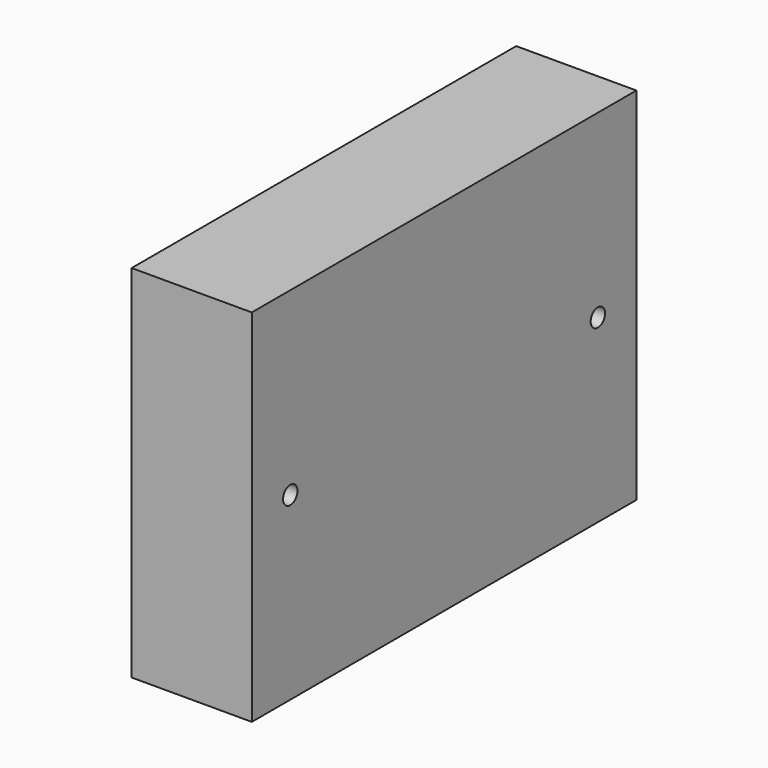
from build123d import *

# Parameters (mm, degrees)
CYLINDER077_R     = 1.5
CYLINDER077_DEPTH = 50
CYLINDER078_R     = 1.5
CYLINDER078_DEPTH = 50
BOX002_W          = 20
BOX002_H          = 80
BOX002_DEPTH      = 60


with BuildPart() as cilindro077:
    # Cylinder077 → Cylinder077 (new body)
    with BuildSketch(Plane(origin=(-8, 8, 30), x_dir=(0, 0, -1), z_dir=(1, 0, 0))):
        Circle(CYLINDER077_R)
    extrude(amount=CYLINDER077_DEPTH)


with BuildPart() as fusion038:
    # Cylinder078 → Cylinder078 (new body)
    with BuildSketch(Plane(origin=(-8, 72, 30), x_dir=(0, 0, -1), z_dir=(1, 0, 0))):
        Circle(CYLINDER078_R)
    extrude(amount=CYLINDER078_DEPTH)

    # Fusion038: union Cilindro077
    add(cilindro077.part)


with BuildPart() as obj1:
    # Box002 → Box002 (new body)
    with BuildSketch(Plane.XY):
        with Locations((10, 40)):
            Rectangle(BOX002_W, BOX002_H)
    extrude(amount=BOX002_DEPTH)

    # Cut002: cut Fusion038
    add(fusion038.part, mode=Mode.SUBTRACT)


with BuildPart() as obj1_1:
    # Cut002 placement: moved
    add(obj1.part.moved(Location((-1, 5, 0))))


solid = obj1_1.part
